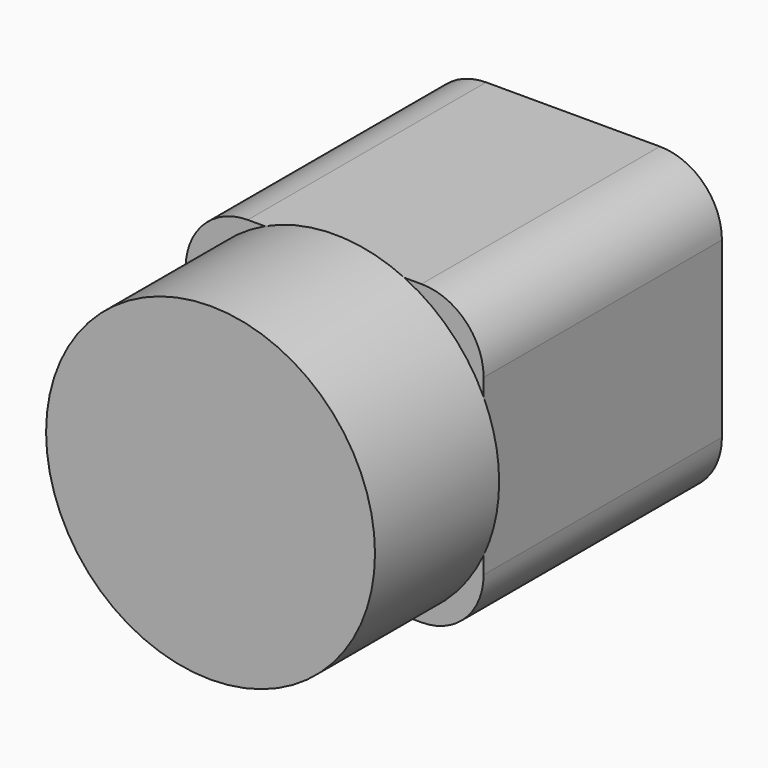
from build123d import *

# Parameters (mm, degrees)
F0_W     = 9.6
F0_H     = 9.6
F1_DEPTH = 9.6
F2_R     = 5.3
F3_DEPTH = 5
F4_R     = 2


with BuildPart() as f1:
    # F0 (on Front) → F1 (new body)
    with BuildSketch(Plane.XZ):
        Rectangle(F0_W, F0_H)
    extrude(amount=-F1_DEPTH)

    # F2 (on Front) → F3 (join)
    with BuildSketch(Plane.XZ):
        Circle(F2_R)
    extrude(amount=F3_DEPTH)

    # F4
    f4_edges = [f1.edges().sort_by_distance(p)[0] for p in [
        (4.8, 4.8, 4.8),
        (-4.8, 4.8, 4.8),
        (-4.8, 4.8, -4.8),
        (4.8, 4.8, -4.8),
    ]]
    fillet(f4_edges, radius=F4_R)


solid = f1.part
